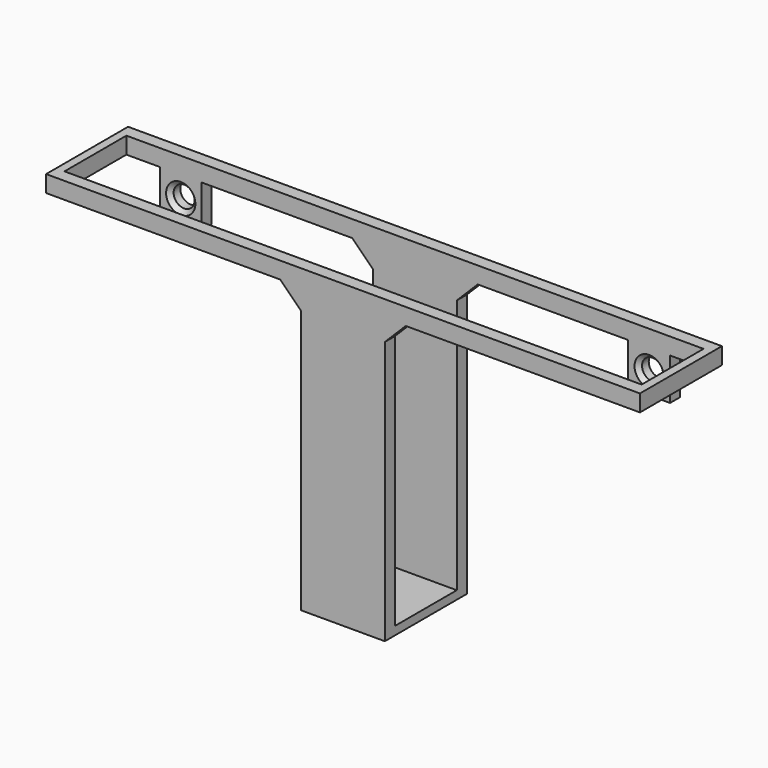
from build123d import *

# Parameters (mm, degrees)
F0_W            = 20
F0_H            = 24.5
F1_DEPTH        = 2
F2_W            = 20
F2_H            = 3
F3_DEPTH        = 70
F4_W            = 71
F4_H            = 4
F5_DEPTH        = 3
F6_W            = 71
F6_H            = 4
F7_DEPTH        = 3
F8_W            = 2
F8_H            = 4
F9_DEPTH        = 18.5
F10_SIZE        = 5
F11_W           = 10
F11_H           = 10
F12_DEPTH       = 3
F14_D           = 5
F14_CSINK_D     = 7
F14_CSINK_ANGLE = 90


with BuildPart() as f1:
    # F0 (on Top) → F1 (new body)
    with BuildSketch(Plane.XY):
        Rectangle(F0_W, F0_H)
    extrude(amount=F1_DEPTH)

    # F2 (on face) → F3 (join)
    with BuildSketch(Plane.XY.offset(2)):
        with Locations((0, 10.75)):
            Rectangle(F2_W, F2_H)
        with Locations((0, -10.75)):
            Rectangle(F2_W, F2_H)
    extrude(amount=F3_DEPTH)

    # F4 (on face) → F5 (join, through all)
    with BuildSketch(Plane.XZ.offset(12.25)):
        with Locations((35.5, 70)):
            Rectangle(F4_W, F4_H)
        with Locations((-35.5, 70)):
            Rectangle(F4_W, F4_H)
    extrude(amount=-F5_DEPTH)

    # F6 (on face) → F7 (join, through all)
    with BuildSketch(Plane.XZ.offset(-9.25)):
        with Locations((-35.5, 70)):
            Rectangle(F6_W, F6_H)
        with Locations((35.5, 70)):
            Rectangle(F6_W, F6_H)
    extrude(amount=-F7_DEPTH)

    # F8 (on face) → F9 (join, through all)
    with BuildSketch(Plane.XZ.offset(-9.25)):
        with Locations((-70, 70)):
            Rectangle(F8_W, F8_H)
        with Locations((70, 70)):
            Rectangle(F8_W, F8_H)
    extrude(amount=F9_DEPTH)

    # F10
    f10_edges = [f1.edges().sort_by_distance(p)[0] for p in [
        (10, 10.75, 68),
        (10, -10.75, 68),
        (-10, 10.75, 68),
        (-10, -10.75, 68),
    ]]
    chamfer(f10_edges, length=F10_SIZE)

    # F11 (on face) → F12 (join, through all)
    with BuildSketch(Plane(origin=(0, 12.25, 0), x_dir=(-1, 0, 0), z_dir=(0, 1, 0))):
        with Locations((-56, 63)):
            Rectangle(F11_W, F11_H)
        with Locations((56, 63)):
            Rectangle(F11_W, F11_H)
    extrude(amount=-F12_DEPTH)

    # F14 (through all)
    with Locations(Plane.XZ.offset(-9.25)):
        with Locations((56, 63), (-56, 63)):
            CounterSinkHole(F14_D / 2, F14_CSINK_D / 2, counter_sink_angle=F14_CSINK_ANGLE)


solid = f1.part
